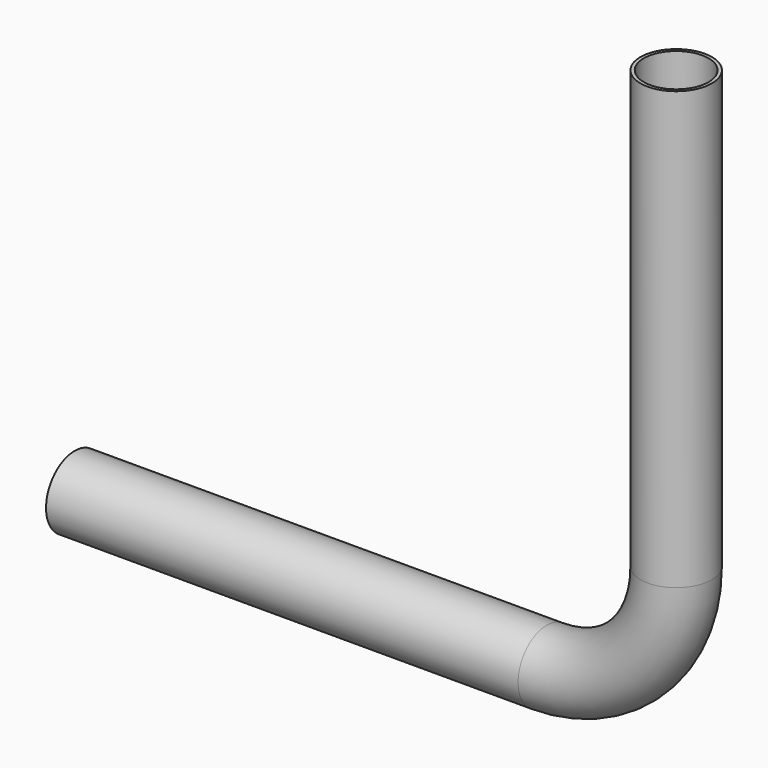
from build123d import *

# Parameters (mm, degrees)
F2_R   = 84.1375
F2_R_2 = 76.2


with BuildPart() as f3:
    # F3: sweep along a path in F0
    with BuildLine(Plane.XZ) as f3_path:
        Line((-1416.05, 0), (-304.8, 0))
        ThreePointArc((-304.8, 0), (-89.273853, 89.273853), (0, 304.8))
        Line((0, 304.8), (0, 1333.5))
    # F2 (on offset) → F3 (sweep)
    with BuildSketch(Plane.YZ.offset(-1416.05)):
        Circle(F2_R)
        Circle(F2_R_2, mode=Mode.SUBTRACT)
    sweep(path=f3_path.line)


solid = f3.part
